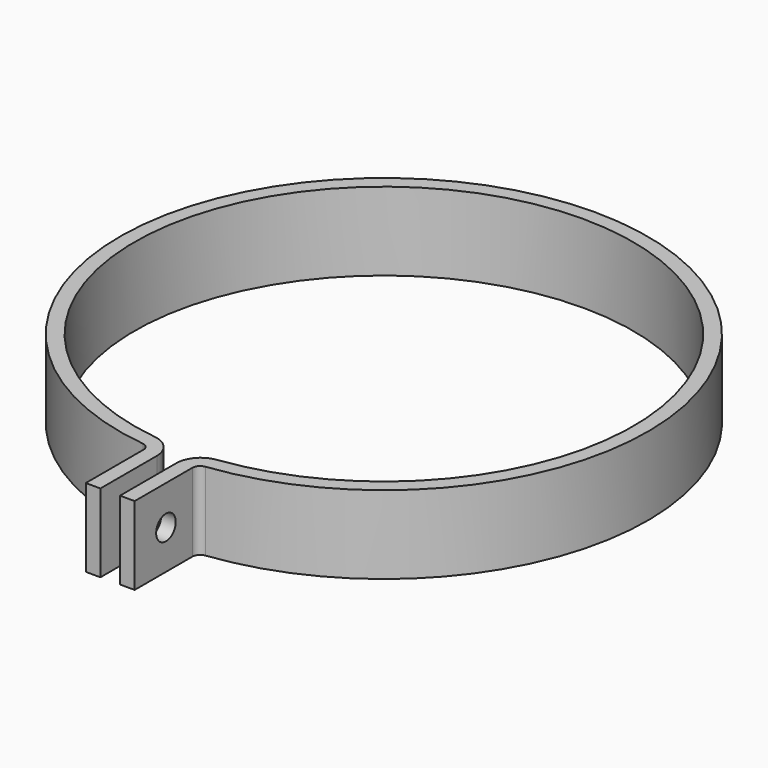
from build123d import *

# Parameters (mm, degrees)
F1_DEPTH = 50.8
F2_R     = 5.08
F3_R     = 15.875
F4_R     = 7.9375
F5_DEPTH = 187.326


with BuildPart() as f1:
    # F0 (on Top) → F1 (new body)
    with BuildSketch(Plane.XY):
        with BuildLine():
            ThreePointArc((-6.35, -161.800442), (0, 161.925), (6.35, -161.800442))
            Line((6.35, -161.800442), (6.35, -171.332367))
            Line((6.35, -171.332367), (6.35, -222.132367))
            Line((6.35, -222.132367), (15.875, -222.132367))
            Line((15.875, -222.132367), (15.875, -170.713464))
            ThreePointArc((15.875, -170.713464), (0, 171.45), (-15.875, -170.713464))
            Line((-15.875, -170.713464), (-15.875, -222.132367))
            Line((-15.875, -222.132367), (-6.35, -222.132367))
            Line((-6.35, -222.132367), (-6.35, -171.332367))
            Line((-6.35, -171.332367), (-6.35, -161.800442))
        make_face()
    extrude(amount=F1_DEPTH)

    # F2
    f2_edges = [f1.edges().sort_by_distance(p)[0] for p in [
        (-15.875, -170.713464, 25.4),
        (15.875, -170.713464, 25.4),
    ]]
    fillet(f2_edges, radius=F2_R)

    # F3
    f3_edges = [f1.edges().sort_by_distance(p)[0] for p in [
        (-6.35, -161.800442, 25.4),
        (6.35, -161.800442, 25.4),
    ]]
    fillet(f3_edges, radius=F3_R)

    # F4 (on face) → F5 (cut, through all)
    with BuildSketch(Plane(origin=(-15.875, 0, 0), x_dir=(0, -1, 0), z_dir=(-1, 0, 0))):
        with Locations((196.732367, 25.4)):
            Circle(F4_R)
    extrude(amount=-F5_DEPTH, mode=Mode.SUBTRACT)


solid = f1.part
